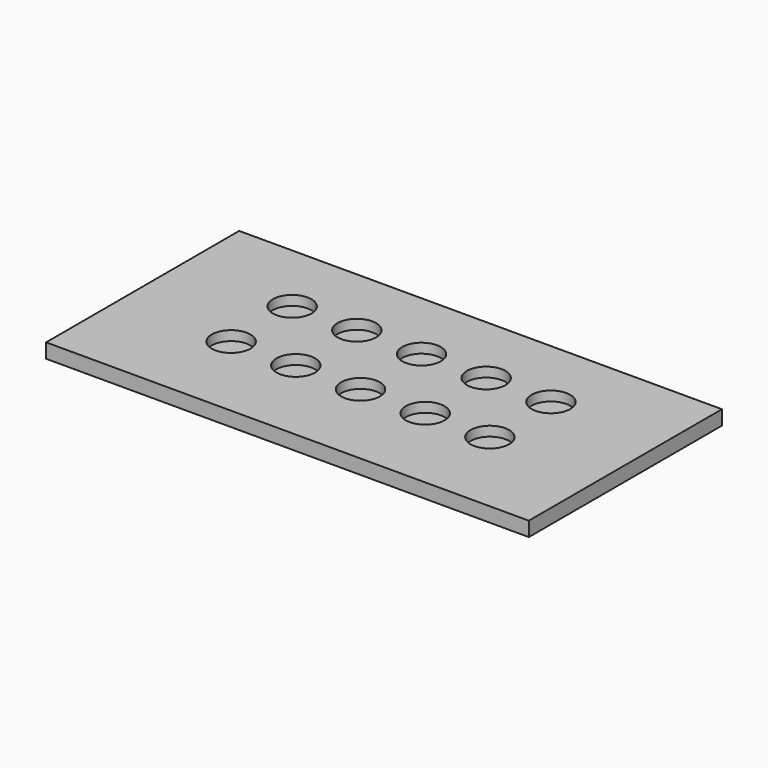
from build123d import *

# Parameters (mm, degrees)
F0_W     = 100
F0_H     = 50
F1_DEPTH = 3
F2_R     = 4
F3_DEPTH = 2


with BuildPart() as f1:
    # F0 (on Top) → F1 (new body)
    with BuildSketch(Plane.XY):
        Rectangle(F0_W, F0_H)
    extrude(amount=F1_DEPTH)

    # F2 (on face) → F3 (cut)
    with BuildSketch(Plane.XY.offset(3)):
        with Locations((-26.8, 9.716717)):
            Circle(F2_R)
        with Locations((-26.8, -6.083283)):
            Circle(F2_R)
        with Locations((-13.4, -6.083283)):
            Circle(F2_R)
        with Locations((-13.4, 9.716717)):
            Circle(F2_R)
        with Locations((0, 9.716717)):
            Circle(F2_R)
        with Locations((0, -6.083283)):
            Circle(F2_R)
        with Locations((13.4, -6.083283)):
            Circle(F2_R)
        with Locations((13.4, 9.716717)):
            Circle(F2_R)
        with Locations((26.8, -6.083283)):
            Circle(F2_R)
        with Locations((26.8, 9.716717)):
            Circle(F2_R)
    extrude(amount=-F3_DEPTH, mode=Mode.SUBTRACT)


solid = f1.part
